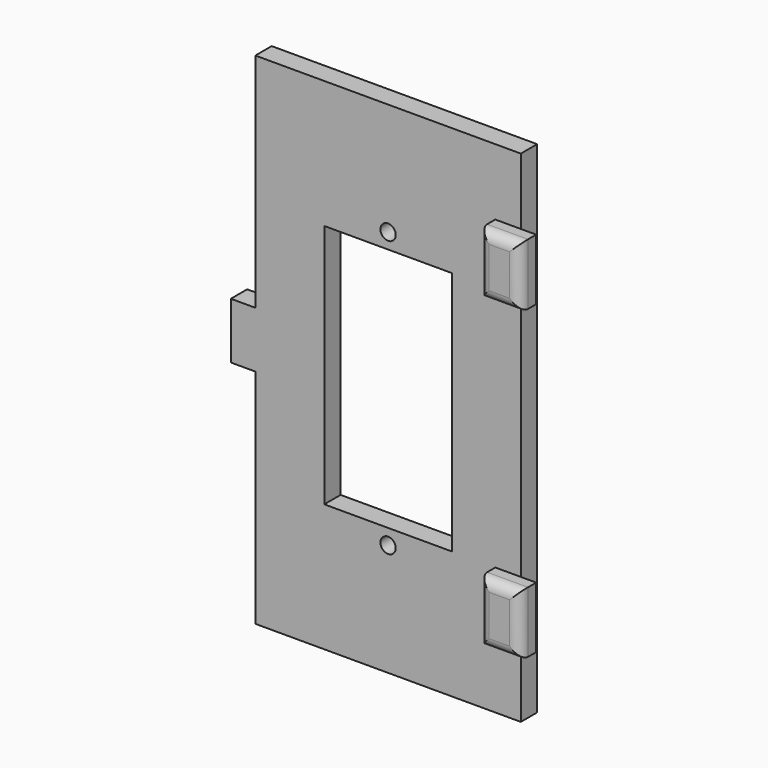
from build123d import *

# Parameters (mm, degrees)
PAD005_DEPTH    = 2
SKETCH011_W     = 2
SKETCH011_H     = 6
PAD006_DEPTH    = 2
PAD006_FACE12_W = 2
PAD006_FACE12_H = 6
PAD007_DEPTH    = 2
PAD007_FACE15_W = 2
PAD007_FACE15_H = 6
PAD008_DEPTH    = 2
FILLET_R        = 1
SKETCH012_R     = 0.75
SKETCH012_W     = 12.5
SKETCH012_H     = 24
POCKET004_DEPTH = 5


with BuildPart() as part:
    # Sketch009 → Pad005 (new body)
    with BuildSketch(Plane(origin=(0, 32.75, 0), x_dir=(-1, 0, 0), z_dir=(0, 1, 0))):
        Polygon((13, 24.5), (-13, 24.5), (-13, -24.5), (13, -24.5), (13, -2.75), (15.4, -2.75), (15.4, 2.75), (13, 2.75), align=None)
    extrude(amount=PAD005_DEPTH)

    # Sketch011 (on Face9 of Pad005) → Pad006 (join)
    with BuildSketch(Plane.XZ.offset(-32.75)):
        with Locations((11.5, 15)):
            Rectangle(SKETCH011_W, SKETCH011_H)
        with Locations((11.5, -15)):
            Rectangle(SKETCH011_W, SKETCH011_H)
    extrude(amount=PAD006_DEPTH)

    # Pad006 Face12 → Pad007 (add)
    with BuildSketch(Plane(origin=(12.5, 31.75, 15), x_dir=(0, -1, 0), z_dir=(1, 0, 0))):
        Rectangle(PAD006_FACE12_W, PAD006_FACE12_H)
    extrude(amount=PAD007_DEPTH)

    # Pad007 Face15 → Pad008 (add)
    with BuildSketch(Plane(origin=(12.5, 31.75, -15), x_dir=(0, -1, 0), z_dir=(1, 0, 0))):
        Rectangle(PAD007_FACE15_W, PAD007_FACE15_H)
    extrude(amount=PAD008_DEPTH)

    # Fillet
    fillet_edges = [part.edges().sort_by_distance(p)[0] for p in [
        (14.5, 30.75, -15),
        (14.5, 30.75, 15),
        (10.5, 30.75, 15),
        (10.5, 30.75, -15),
        (12.5, 30.75, 18),
        (12.5, 30.75, 12),
        (12.5, 30.75, -12),
        (12.5, 30.75, -18),
    ]]
    fillet(fillet_edges, radius=FILLET_R)

    # Sketch012 (on Face23 of Fillet) → Pocket004 (cut)
    with BuildSketch(Plane(origin=(0, 34.75, 0), x_dir=(1, 0, 0), z_dir=(0, 1, 0))):
        with Locations((0, 13.5)):
            Circle(SKETCH012_R)
        with Locations((0, -13.5)):
            Circle(SKETCH012_R)
        Rectangle(SKETCH012_W, SKETCH012_H)
    extrude(amount=-POCKET004_DEPTH, mode=Mode.SUBTRACT)


solid = part.part
